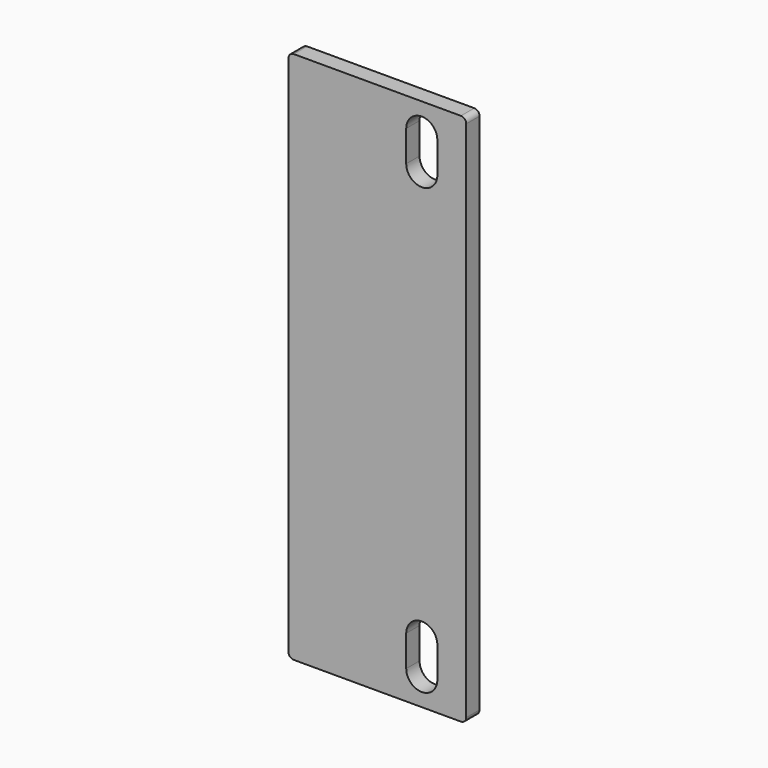
from build123d import *

# Parameters (mm, degrees)
F1_DEPTH = 4.7625


with BuildPart() as f1:
    # F0 (on Front) → F1 (new body)
    with BuildSketch(Plane.XZ):
        with BuildLine():
            ThreePointArc((-1.524, 0), (-0.446369, 0.446369), (0, 1.524))
            Line((0, 1.524), (0, 150.876))
            ThreePointArc((0, 150.876), (-0.446369, 151.953631), (-1.524, 152.4))
            Line((-1.524, 152.4), (-49.276, 152.4))
            ThreePointArc((-49.276, 152.4), (-50.353631, 151.953631), (-50.8, 150.876))
            Line((-50.8, 150.876), (-50.8, 1.524))
            ThreePointArc((-50.8, 1.524), (-50.353631, 0.446369), (-49.276, 0))
            Line((-49.276, 0), (-1.524, 0))
        make_face()
        with BuildLine():
            ThreePointArc((-17.145, 17.145), (-12.7, 21.59), (-8.255, 17.145))
            Line((-8.255, 17.145), (-8.255, 8.255))
            ThreePointArc((-8.255, 8.255), (-12.7, 3.81), (-17.145, 8.255))
            Line((-17.145, 8.255), (-17.145, 17.145))
        make_face(mode=Mode.SUBTRACT)
        with BuildLine():
            ThreePointArc((-17.145, 144.145), (-12.7, 148.59), (-8.255, 144.145))
            Line((-8.255, 144.145), (-8.255, 135.255))
            ThreePointArc((-8.255, 135.255), (-12.7, 130.81), (-17.145, 135.255))
            Line((-17.145, 135.255), (-17.145, 144.145))
        make_face(mode=Mode.SUBTRACT)
    extrude(amount=F1_DEPTH)


solid = f1.part
